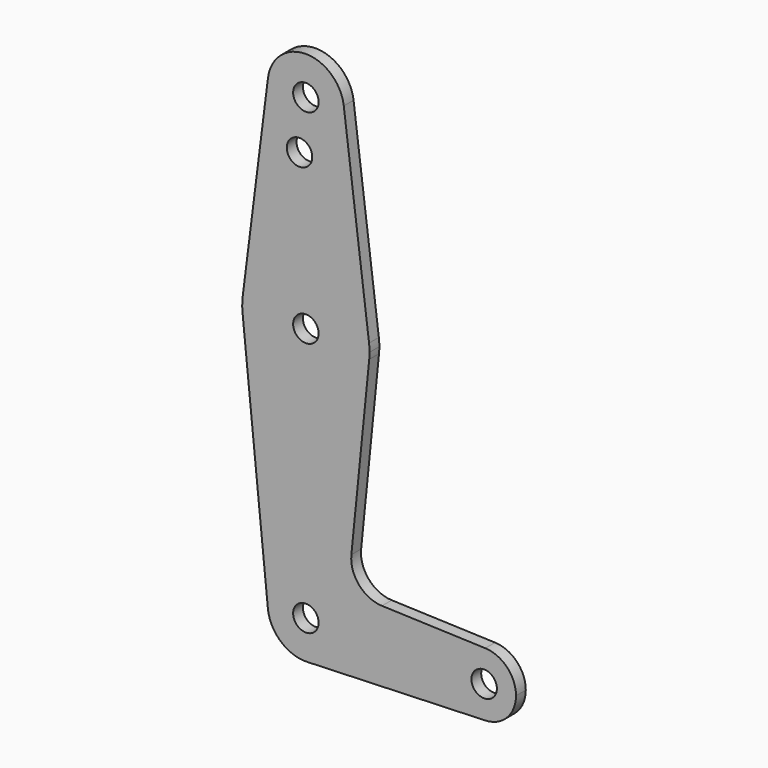
from build123d import *

# Parameters (mm, degrees)
F0_R     = 3.175
F1_DEPTH = 3.048


with BuildPart() as f1:
    # F0 (on Front) → F1 (new body)
    with BuildSketch(Plane.XZ):
        with BuildLine():
            ThreePointArc((-1.190625, 104.849707), (6.300195, 107.15625), (9.525, 114.3))
            ThreePointArc((9.525, 114.3), (9.506305, 114.896483), (9.450293, 115.490625))
            ThreePointArc((9.450293, 115.490625), (0, 123.825), (-9.450293, 115.490625))
            ThreePointArc((-9.450293, 115.490625), (-7.524265, 108.459533), (-1.190625, 104.849707))
        make_face()
        with Locations((0, 114.3)):
            Circle(F0_R, mode=Mode.SUBTRACT)
        with BuildLine():
            ThreePointArc((9.450293, 115.490625), (9.506305, 114.896483), (9.525, 114.3))
            ThreePointArc((9.525, 114.3), (6.300195, 107.15625), (-1.190625, 104.849707))
            ThreePointArc((-1.190625, 104.849707), (-7.524265, 108.459533), (-9.450293, 115.490625))
            Line((-9.450293, 115.490625), (-15.750488, 65.484375))
            ThreePointArc((-15.750488, 65.484375), (0, 79.375), (15.750488, 65.484375))
            Line((15.750488, 65.484375), (9.450293, 115.490625))
        make_face()
        with BuildLine():
            ThreePointArc((1.5875, 101.699609), (-3.96875, 99.599544), (-1.190625, 104.849707))
            ThreePointArc((-1.190625, 104.849707), (0.79375, 103.799675), (1.5875, 101.699609))
        make_face(mode=Mode.SUBTRACT)
        with BuildLine():
            ThreePointArc((15.875, 63.5), (15.843841, 64.494139), (15.750488, 65.484375))
            ThreePointArc((15.750488, 65.484375), (0, 79.375), (-15.750488, 65.484375))
            ThreePointArc((-15.750488, 65.484375), (-15.873744, 63.699705), (-15.795426, 61.9125))
            ThreePointArc((-15.795426, 61.9125), (0, 47.625), (15.795426, 61.9125))
            ThreePointArc((15.795426, 61.9125), (15.855094, 62.705253), (15.875, 63.5))
        make_face()
        with Locations((0, 63.5)):
            Circle(F0_R, mode=Mode.SUBTRACT)
        with BuildLine():
            ThreePointArc((15.795426, 61.9125), (0, 47.625), (-15.795426, 61.9125))
            Line((-15.795426, 61.9125), (-9.477255, -0.9525))
            ThreePointArc((-9.477255, -0.9525), (-0.476848, 9.513056), (9.525, 0))
            ThreePointArc((9.525, 0), (6.854408, -6.613827), (0.340179, -9.518923))
            Line((0.340179, -9.518923), (44.733482, -7.932436))
            ThreePointArc((44.733482, -7.932436), (36.5125, 0), (44.733482, 7.932436))
            Line((44.733482, 7.932436), (18.9676, 8.853234))
            ThreePointArc((18.9676, 8.853234), (13.2612, 11.571359), (11.341187, 17.593382))
            Line((11.341187, 17.593382), (15.795426, 61.9125))
        make_face()
        with BuildLine():
            ThreePointArc((9.525, 0), (-0.476848, 9.513056), (-9.477255, -0.9525))
            ThreePointArc((-9.477255, -0.9525), (-6.262383, -7.17692), (0.340179, -9.518923))
            ThreePointArc((0.340179, -9.518923), (6.854408, -6.613827), (9.525, 0))
        make_face()
        Circle(F0_R, mode=Mode.SUBTRACT)
        with BuildLine():
            ThreePointArc((44.733482, 7.932436), (36.5125, 0), (44.733482, -7.932436))
            ThreePointArc((44.733482, -7.932436), (50.162007, -5.511523), (52.3875, 0))
            ThreePointArc((52.3875, 0), (50.162007, 5.511523), (44.733482, 7.932436))
        make_face()
        with Locations((44.45, 0)):
            Circle(F0_R, mode=Mode.SUBTRACT)
    extrude(amount=F1_DEPTH)


solid = f1.part
